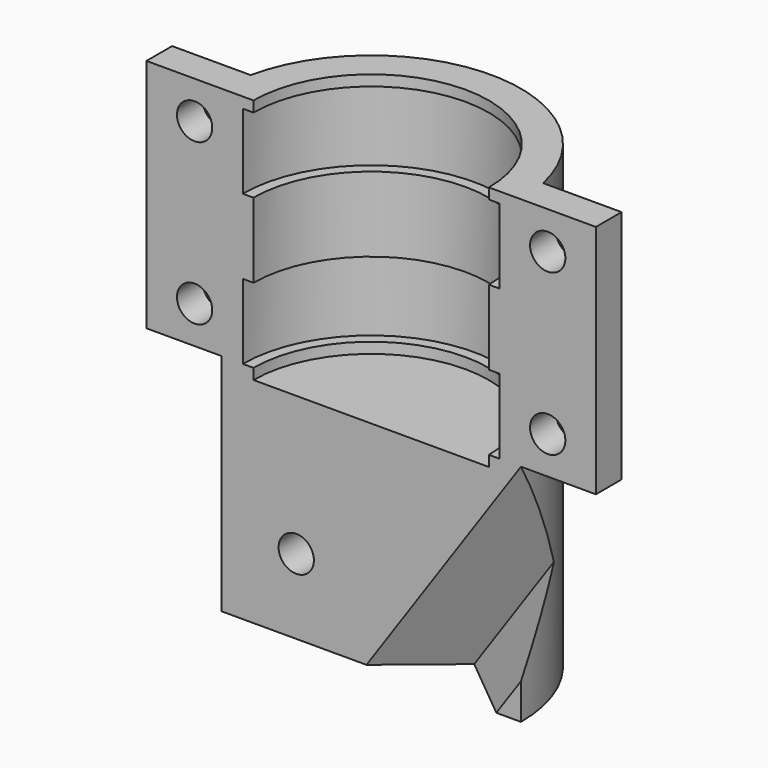
from build123d import *

# Parameters (mm, degrees)
F1_ANGLE = 180
F2_W     = 9
F2_H     = 22
F3_DEPTH = 3
F4_D     = 3.3
F8_DEPTH = 30


with BuildPart() as f1:
    # F0 (on Front) → F1 (revolve)
    with BuildSketch(Plane.XZ):
        Polygon((-12, 21), (-11, 21), (-11, 22), (-14, 22), (-14, -21), (0, -21), (0, -1), (-11, -1), (-11, 0), (-12, 0), (-12, 7), (-11, 7), (-11, 14), (-12, 14), align=None)
    revolve(axis=Axis((0, 0, -11), (0, 0, -1)), revolution_arc=F1_ANGLE)

    # F2 (on face) → F3 (join)
    with BuildSketch(Plane.XZ):
        with Locations((-16.5, 11)):
            Rectangle(F2_W, F2_H)
        with Locations((16.5, 11)):
            Rectangle(F2_W, F2_H)
    extrude(amount=-F3_DEPTH)

    # F4 (through all)
    with Locations(Plane.XZ):
        with Locations((-16.5, 18.5), (-16.5, 3.5), (-7, -14), (16.5, 18.5), (16.5, 3.5)):
            Hole(F4_D / 2)

    # F7 (on offset) → F8 (cut)
    with BuildSketch(Plane(origin=(4.4739377588, 0, 6.5075458311), x_dir=(0.8240419242, 0, -0.5665288229), z_dir=(-0.5665288229, 0, -0.8240419242))):
        Polygon((16.5365869388, -5), (21.5365869388, 0), (11.5365869388, 0), align=None)
    extrude(amount=F8_DEPTH, mode=Mode.SUBTRACT)


solid = f1.part
